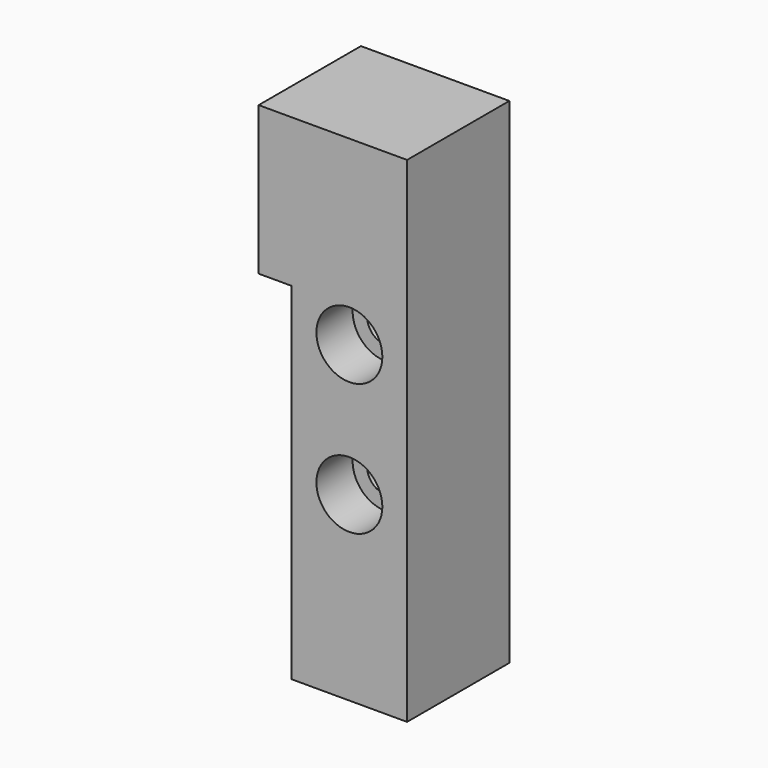
from build123d import *

# Parameters (mm, degrees)
F0_R     = 4
F0_R_2   = 2.25
F0_W     = 1
F0_H     = 20
F1_DEPTH = 15.5
F2_DEPTH = 15.501
F3_DEPTH = 5.5


with BuildPart() as f1:
    # F0 (on Front) → F1 (new body)
    with BuildSketch(Plane.XZ):
        with BuildLine():
            Line((-31.693068, 12), (-27.693068, 12))
            Line((-27.693068, 12), (-27.693068, -10))
            Line((-27.693068, -10), (-26.693068, -10))
            Line((-26.693068, -10), (-26.693068, -30))
            Line((-26.693068, -30), (-22.693068, -30))
            Line((-22.693068, -30), (-22.693068, -18))
            ThreePointArc((-22.693068, -18), (-21.228602, -14.464466), (-17.693068, -13))
            Line((-17.693068, -13), (-13.693068, -13))
            Line((-13.693068, -13), (-13.693068, 30))
            Line((-13.693068, 30), (-31.693068, 30))
            Line((-31.693068, 30), (-31.693068, 12))
        make_face()
        with Locations((-20.693068, -8)):
            Circle(F0_R, mode=Mode.SUBTRACT)
        with Locations((-20.693068, 8)):
            Circle(F0_R, mode=Mode.SUBTRACT)
        with Locations((-20.693068, 8)):
            Circle(F0_R)
        with Locations((-20.693068, 8)):
            Circle(F0_R_2, mode=Mode.SUBTRACT)
        with Locations((-20.693068, -8)):
            Circle(F0_R)
        with Locations((-20.693068, -8)):
            Circle(F0_R_2, mode=Mode.SUBTRACT)
        with BuildLine():
            Line((-22.693068, -18), (-22.693068, -30))
            Line((-22.693068, -30), (-13.693068, -30))
            Line((-13.693068, -30), (-13.693068, -13))
            Line((-13.693068, -13), (-17.693068, -13))
            ThreePointArc((-17.693068, -13), (-21.228602, -14.464466), (-22.693068, -18))
        make_face()
        with Locations((-20.693068, 8)):
            Circle(F0_R_2)
        with Locations((-27.193068, -20)):
            Rectangle(F0_W, F0_H)
        with Locations((-20.693068, -8)):
            Circle(F0_R_2)
    extrude(amount=-F1_DEPTH)

    # F0 (on Front) → F2 (cut, through all)
    with BuildSketch(Plane.XZ):
        with Locations((-20.693068, 8)):
            Circle(F0_R_2)
        with Locations((-20.693068, -8)):
            Circle(F0_R_2)
    extrude(amount=-F2_DEPTH, mode=Mode.SUBTRACT)

    # F0 (on Front) → F3 (cut)
    with BuildSketch(Plane.XZ):
        with Locations((-20.693068, 8)):
            Circle(F0_R)
        with Locations((-20.693068, 8)):
            Circle(F0_R_2, mode=Mode.SUBTRACT)
        with Locations((-20.693068, -8)):
            Circle(F0_R)
        with Locations((-20.693068, -8)):
            Circle(F0_R_2, mode=Mode.SUBTRACT)
        with Locations((-20.693068, 8)):
            Circle(F0_R_2)
        with Locations((-20.693068, -8)):
            Circle(F0_R_2)
    extrude(amount=-F3_DEPTH, mode=Mode.SUBTRACT)


solid = f1.part
